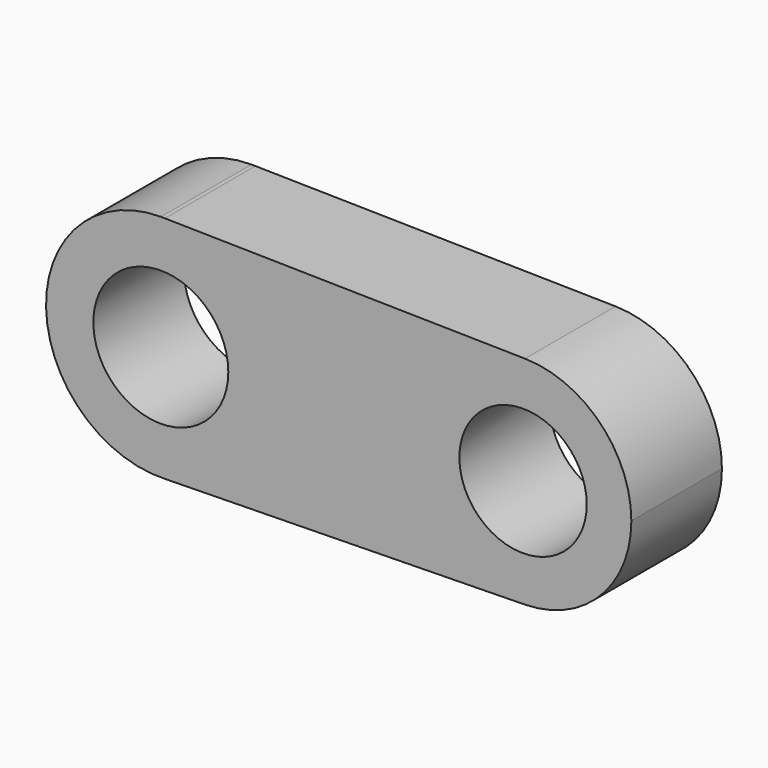
from build123d import *

# Parameters (mm, degrees)
F0_R     = 15.138154
F0_R_2   = 14.288506
F1_DEPTH = 25.4


with BuildPart() as f1:
    # F0 (on Front) → F1 (new body)
    with BuildSketch(Plane.XZ):
        with BuildLine():
            Line((0.916591, 25.732324), (0, 25.748643))
            ThreePointArc((0, 25.748643), (-25.743388, -0.520181), (1.04015, -25.727626))
            ThreePointArc((1.04015, -25.727626), (18.571148, -17.835501), (25.748643, 0))
            ThreePointArc((25.748643, 0), (18.52827, 17.88004), (0.916591, 25.732324))
        make_face()
        Circle(F0_R, mode=Mode.SUBTRACT)
        with BuildLine():
            ThreePointArc((0.916591, 25.732324), (0.458368, 25.744563), (0, 25.748643))
            Line((0, 25.748643), (0.916591, 25.732324))
        make_face()
        with BuildLine():
            ThreePointArc((25.748643, 0), (18.571148, -17.835501), (1.04015, -25.727626))
            Line((1.04015, -25.727626), (81.701514, -24.293992))
            ThreePointArc((81.701514, -24.293992), (56.971897, 0.000376), (81.702267, 24.293979))
            Line((81.702267, 24.293979), (0.916591, 25.732324))
            ThreePointArc((0.916591, 25.732324), (18.52827, 17.88004), (25.748643, 0))
        make_face()
        with BuildLine():
            ThreePointArc((81.702267, 24.293979), (56.971897, 0.000376), (81.701514, -24.293992))
            ThreePointArc((81.701514, -24.293992), (98.602873, -17.027815), (105.567554, 0))
            ThreePointArc((105.567554, 0), (98.603137, 17.027546), (81.702267, 24.293979))
        make_face()
        with Locations((81.269725, 0)):
            Circle(F0_R_2, mode=Mode.SUBTRACT)
    extrude(amount=F1_DEPTH)


solid = f1.part
